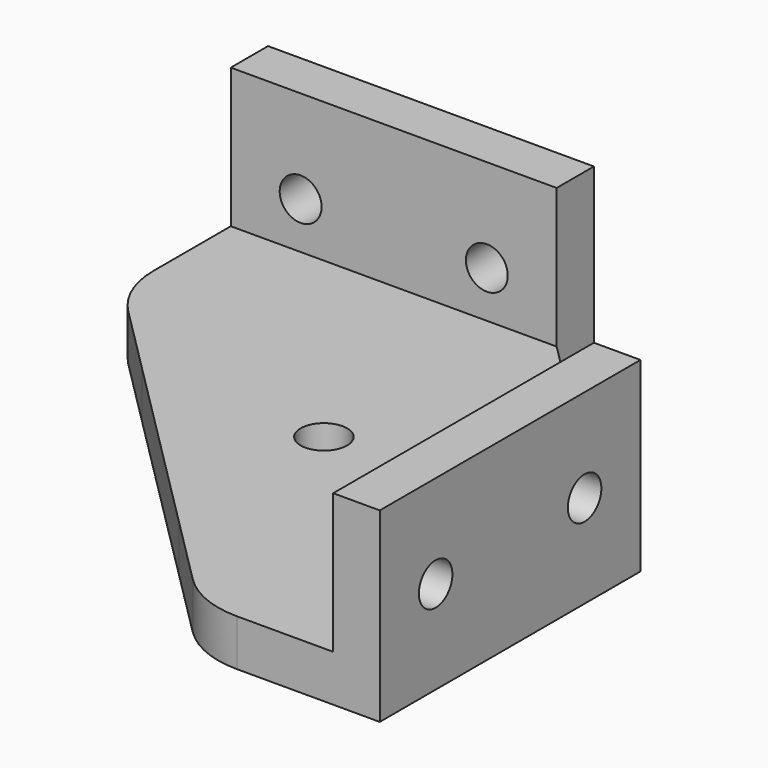
from build123d import *

# Parameters (mm, degrees)
F0_W     = 35
F0_H     = 5
F0_W_2   = 5
F0_H_2   = 35
F1_DEPTH = 5
F2_W     = 35
F2_H     = 5
F2_W_2   = 5
F2_H_2   = 35
F3_DEPTH = 15
F4_R     = 2.5
F5_DEPTH = 5
F6_R     = 2.25
F7_DEPTH = 5
F8_R     = 2.25
F9_DEPTH = 5
F10_R    = 10


with BuildPart() as f1:
    # F0 (on Top) → F1 (new body)
    with BuildSketch(Plane.XY):
        Polygon((10.502526, -30), (25, -30), (25, 5), (5, 25), (-30, 25), (-30, 10.502526), (-19.747754, 0.250279), (0.251263, -19.748737), align=None)
        with Locations((-12.5, 27.5)):
            Rectangle(F0_W, F0_H)
        with Locations((27.5, -12.5)):
            Rectangle(F0_W_2, F0_H_2)
    extrude(amount=F1_DEPTH)

    # F2 (on face) → F3 (join)
    with BuildSketch(Plane.XY.offset(5)):
        with Locations((-12.5, 27.5)):
            Rectangle(F2_W, F2_H)
        with Locations((27.5, -12.5)):
            Rectangle(F2_W_2, F2_H_2)
    extrude(amount=F3_DEPTH)

    # F4 (on face) → F5 (cut, through all)
    with BuildSketch(Plane.XY.offset(5)):
        Circle(F4_R)
    extrude(amount=-F5_DEPTH, mode=Mode.SUBTRACT)

    # F6 (on face) → F7 (cut, through all)
    with BuildSketch(Plane.YZ.offset(30)):
        with Locations((-22.5, 10)):
            Circle(F6_R)
        with Locations((-2.5, 10)):
            Circle(F6_R)
    extrude(amount=-F7_DEPTH, mode=Mode.SUBTRACT)

    # F8 (on face) → F9 (cut, through all)
    with BuildSketch(Plane(origin=(0, 30, 0), x_dir=(-1, 0, 0), z_dir=(0, 1, 0))):
        with Locations((2.5, 10)):
            Circle(F8_R)
        with Locations((22.5, 10)):
            Circle(F8_R)
    extrude(amount=-F9_DEPTH, mode=Mode.SUBTRACT)

    # F10
    f10_edges = [f1.edges().sort_by_distance(p)[0] for p in [
        (-30, 10.502526, 2.5),
        (10.502526, -30, 2.5),
    ]]
    fillet(f10_edges, radius=F10_R)


solid = f1.part
